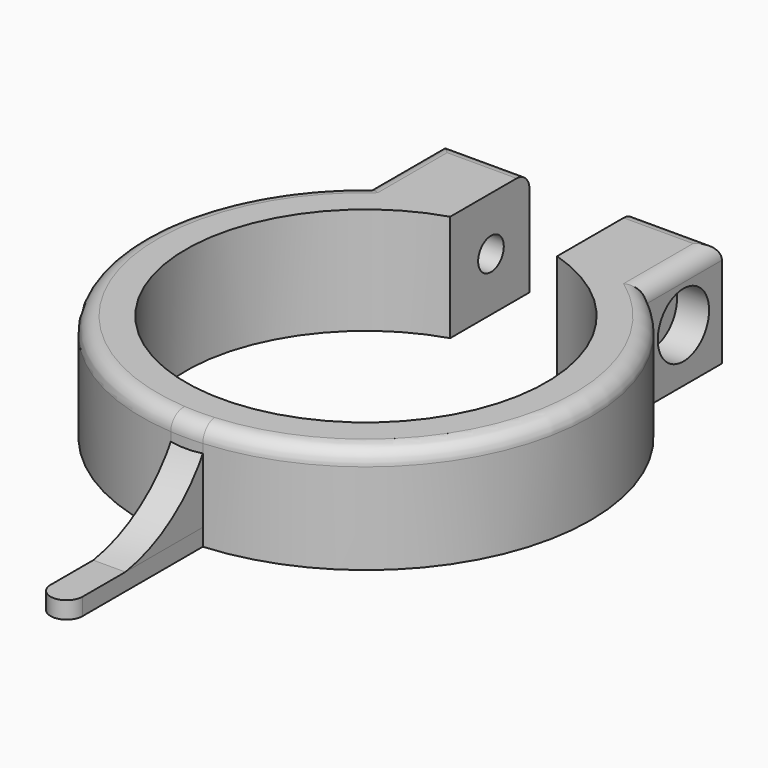
from build123d import *

# Parameters (mm, degrees)
PAD001_DEPTH    = 1.5
PAD_DEPTH       = 10
POCKET_DEPTH    = 8.4
SKETCH002_R     = 1.5
POCKET001_DEPTH = 34.001
SKETCH003_R     = 3
POCKET002_DEPTH = 3
POCKET003_DEPTH = 2.5
FILLET_R        = 1.5


with BuildPart() as pad001:
    # Sketch005 → Pad001 (new body, symmetric)
    with BuildSketch(Plane.YZ):
        with BuildLine():
            Line((-30, 1.6), (-20, 1.6))
            Line((-20, 1.6), (-20, 9.5))
            ThreePointArc((-30, 1.6), (-23.965552, 4.240572), (-20, 9.5))
        make_face()
    extrude(amount=PAD001_DEPTH, both=True)


with BuildPart() as fillet_body:
    # Sketch → Pad (new body)
    with BuildSketch(Plane.XY):
        with BuildLine():
            ThreePointArc((-5, 16.091069), (0, -16.85), (5, 16.091069))
            Line((5, 25.36), (5, 16.091069))
            Line((5, 25.36), (13, 25.36))
            Line((13, 16.492423), (13, 25.36))
            ThreePointArc((1.5, -20.94636), (20.074315, -6.166189), (13, 16.492423))
            Line((1.5, -20.94636), (1.5, -35.000011))
            ThreePointArc((-1.5, -35.000011), (0, -36.5), (1.5, -35.000011))
            Line((-1.5, -20.94636), (-1.5, -35.000011))
            ThreePointArc((-13, 16.492423), (-20.074315, -6.166189), (-1.5, -20.94636))
            Line((-13, 16.492423), (-13, 25.36))
            Line((-13, 25.36), (-5, 25.36))
            Line((-5, 25.36), (-5, 16.091069))
        make_face()
    extrude(amount=PAD_DEPTH)

    # Sketch001 → Pocket (cut)
    with BuildSketch(Plane.XY.offset(10)):
        with BuildLine():
            ThreePointArc((-1.5, -20.94636), (0, -21), (1.5, -20.94636))
            Line((1.5, -20.94636), (1.5, -35.000011))
            ThreePointArc((-1.5, -35.000011), (0, -36.5), (1.5, -35.000011))
            Line((-1.5, -20.94636), (-1.5, -35.000011))
        make_face()
    extrude(amount=-POCKET_DEPTH, mode=Mode.SUBTRACT)

    # Sketch002 → Pocket001 (cut, through all)
    with BuildSketch(Plane.YZ.offset(13)):
        with Locations((20.86, 5)):
            Circle(SKETCH002_R)
    extrude(amount=-POCKET001_DEPTH, mode=Mode.SUBTRACT)

    # Sketch003 → Pocket002 (cut, symmetric)
    with BuildSketch(Plane.YZ.offset(13)):
        with Locations((20.86, 5)):
            Circle(SKETCH003_R)
    extrude(amount=POCKET002_DEPTH, both=True, mode=Mode.SUBTRACT)

    # Sketch004 → Pocket003 (cut)
    with BuildSketch(Plane(origin=(-13, 0, 0), x_dir=(0, -1, 0), z_dir=(-1, 0, 0))):
        Polygon((-20.86, 8.3), (-23.717884, 6.65), (-23.717884, 3.35), (-20.86, 1.7), (-18.002116, 3.35), (-18.002116, 6.65), align=None)
    extrude(amount=-POCKET003_DEPTH, mode=Mode.SUBTRACT)

    # Fillet
    fillet_edges = [fillet_body.edges().sort_by_distance(p)[0] for p in [
        (-20.074315, -6.166189, 10),
        (-13, 20.926211, 10),
        (-9, 25.36, 10),
        (9, 25.36, 10),
        (13, 20.926211, 10),
        (20.074315, -6.166189, 10),
        (0, -21, 10),
    ]]
    fillet(fillet_edges, radius=FILLET_R)


solid = Compound([pad001.part, fillet_body.part])
